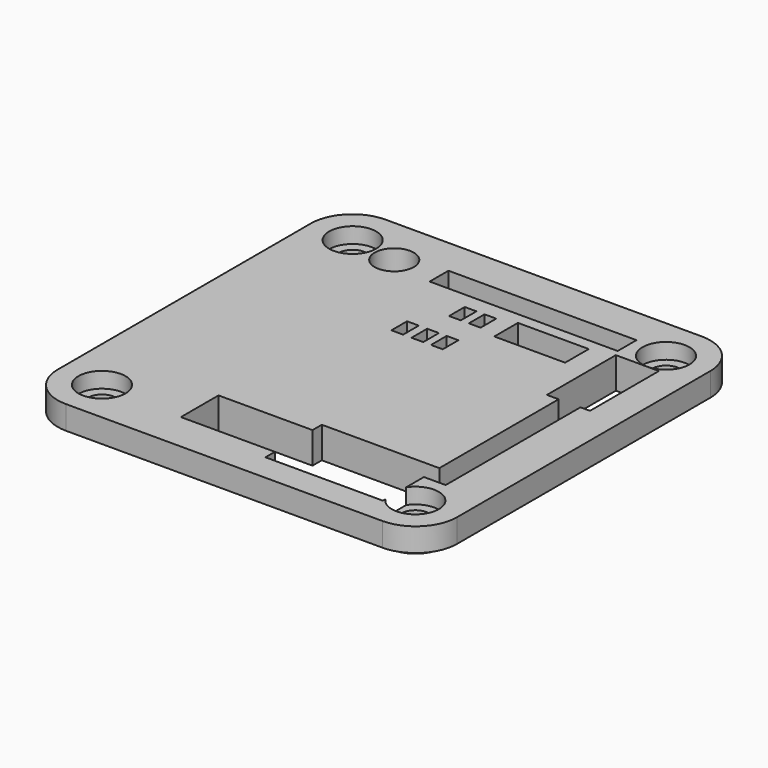
from build123d import *

# Parameters (mm, degrees)
PAD005_DEPTH     = 4
PAD002_DEPTH     = 1
PAD003_DEPTH     = 3
HOLE_D           = 3.5
HOLE_CBORE_D     = 6
HOLE_CBORE_DEPTH = 2
SKETCH011_R      = 2.5
SKETCH011_W      = 9.042401
SKETCH011_H      = 3.767665
SKETCH011_W_2    = 24
SKETCH011_H_2    = 3
SKETCH011_W_3    = 1.5
SKETCH011_H_3    = 2.5
POCKET005_DEPTH  = 5
SKETCH012_W      = 5.629994
SKETCH012_H      = 16.889996
SKETCH012_W_2    = 13.176597
SKETCH012_H_2    = 7.067448
POCKET006_DEPTH  = 0.5


with BuildPart() as usb_c_cutter:
    # Sketch008 → Pad005 (new body)
    with BuildSketch(Plane(origin=(0, 0, 0), x_dir=(0, -1, 0), z_dir=(-1, 0, 0))):
        with BuildLine():
            Line((2.535801, 11.911979), (12.347588, 11.911979))
            ThreePointArc((14.347588, 9.911979), (13.761802, 11.326192), (12.347588, 11.911979))
            Line((14.347588, 9.911979), (14.347588, 3.866895))
            ThreePointArc((12.347588, 1.866895), (13.761802, 2.452682), (14.347588, 3.866895))
            Line((12.347588, 1.866895), (2.535801, 1.866895))
            ThreePointArc((0.535801, 3.866895), (1.121588, 2.452682), (2.535801, 1.866895))
            Line((0.535801, 3.866895), (0.535801, 9.911979))
            ThreePointArc((2.535801, 11.911979), (1.121588, 11.326192), (0.535801, 9.911979))
        make_face()
    extrude(amount=-PAD005_DEPTH)


with BuildPart() as usb_c_cutter_1:
    # Body002 placement: moved
    add(usb_c_cutter.part.moved(Location((-26, 0, 0))))


with BuildPart() as lid_pocketed:
    # Sketch005 → Pad002 (new body)
    with BuildSketch(Plane.XY.offset(7)):
        with BuildLine():
            Line((-20.15, 23.75), (20.15, 23.75))
            ThreePointArc((23.75, 20.15), (22.695584, 22.695584), (20.15, 23.75))
            Line((23.75, 20.15), (23.75, -20.15))
            ThreePointArc((20.15, -23.75), (22.695584, -22.695584), (23.75, -20.15))
            Line((20.15, -23.75), (-20.15, -23.75))
            ThreePointArc((-23.75, -20.15), (-22.695584, -22.695584), (-20.15, -23.75))
            Line((-23.75, -20.15), (-23.75, 20.15))
            ThreePointArc((-20.15, 23.75), (-22.695584, 22.695584), (-23.75, 20.15))
        make_face()
    extrude(amount=PAD002_DEPTH)

    # Sketch006 (on Face10 of Pad002) → Pad003 (join)
    with BuildSketch(Plane.XY.offset(8)):
        with BuildLine():
            Line((-20.2, 25.5), (20.2, 25.5))
            ThreePointArc((25.5, 20.2), (23.947666, 23.947666), (20.2, 25.5))
            Line((25.5, 20.2), (25.5, -20.2))
            ThreePointArc((20.2, -25.5), (23.947666, -23.947666), (25.5, -20.2))
            Line((20.2, -25.5), (-20.2, -25.5))
            ThreePointArc((-25.5, -20.2), (-23.947666, -23.947666), (-20.2, -25.5))
            Line((-25.5, -20.2), (-25.5, 20.2))
            ThreePointArc((-20.2, 25.5), (-23.947666, 23.947666), (-25.5, 20.2))
        make_face()
    extrude(amount=PAD003_DEPTH)

    # Hole (through all)
    with Locations(Plane.XY.offset(11)):
        with Locations((-20, 20), (20, 20), (20, -20), (-20, -20)):
            CounterBoreHole(HOLE_D / 2, HOLE_CBORE_D / 2, HOLE_CBORE_DEPTH)


with BuildPart() as lid_pocketed_1:
    # Body001 placement: moved
    add(lid_pocketed.part.moved(Location((0, 0, 2))))

    # Cut: cut USB-C Cutter
    add(usb_c_cutter_1.part, mode=Mode.SUBTRACT)

    # Sketch011 (on Face7 of BaseFeature001) → Pocket005 (cut)
    with BuildSketch(Plane.XY.offset(13)):
        with Locations((-14.102295, 19.26004)):
            Circle(SKETCH011_R)
        with Locations((8.547714, 14.450916)):
            Rectangle(SKETCH011_W, SKETCH011_H)
        Polygon((15.998645, 16.994311), (21.498645, 16.994311), (21.498645, 5.994311), (20.28048, 5.994311), (20.28048, -15.505689), (17.5, -15.505689), (17.5, -22.047392), (2.5, -22.047392), (2.5, -20.535681), (-9.5, -20.535681), (-9.5, -14.535681), (2.5, -14.535681), (2.5, -13.047392), (17.5, -13.047392), (17.5, 5.994311), (15.998645, 5.994311), align=None)
        with Locations((3.585587, 19.303802)):
            Rectangle(SKETCH011_W_2, SKETCH011_H_2)
        with Locations((-1.504905, 14.45)):
            Rectangle(SKETCH011_W_3, SKETCH011_H_3)
        with Locations((1.020606, 14.45)):
            Rectangle(SKETCH011_W_3, SKETCH011_H_3)
        with Locations((0.989071, 8.45)):
            Rectangle(SKETCH011_W_3, SKETCH011_H_3)
        with Locations((-1.499158, 8.45)):
            Rectangle(SKETCH011_W_3, SKETCH011_H_3)
        with Locations((-4.069136, 8.45)):
            Rectangle(SKETCH011_W_3, SKETCH011_H_3)
    extrude(amount=-POCKET005_DEPTH, mode=Mode.SUBTRACT)

    # Sketch012 (on Face76 of Pocket005) → Pocket006 (cut)
    with BuildSketch(Plane(origin=(0, 0, 9), x_dir=(1, 0, 0), z_dir=(0, 0, -1))):
        with Locations((-18.033425, -7.323527)):
            Rectangle(SKETCH012_W, SKETCH012_H)
        with Locations((8.540513, -14.609106)):
            Rectangle(SKETCH012_W_2, SKETCH012_H_2)
    extrude(amount=-POCKET006_DEPTH, mode=Mode.SUBTRACT)


solid = lid_pocketed_1.part
